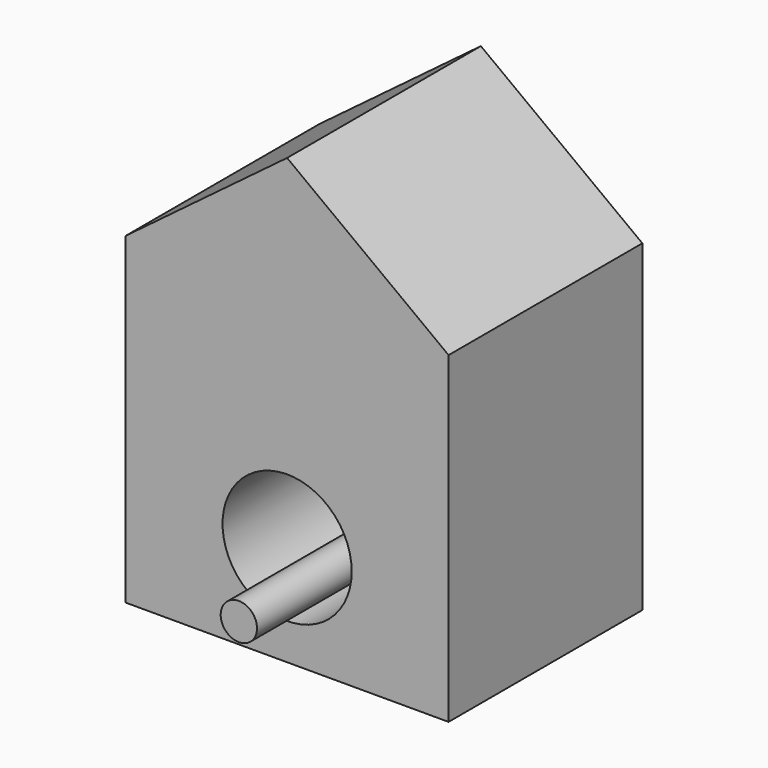
from build123d import *

# Parameters (mm, degrees)
F0_W     = 203.2
F0_H     = 203.2
F0_R     = 40.64
F2_DEPTH = 152.4
F1_R     = 11.43
F3_DEPTH = 190.5


with BuildPart() as f2:
    # F0 (on Front) → F2 (new body)
    with BuildSketch(Plane.XZ):
        Polygon((101.6, 279.4), (0, 203.2), (203.2, 203.2), align=None)
        with Locations((101.6, 101.6)):
            Rectangle(F0_W, F0_H)
        with Locations((101.6, 63.5)):
            Circle(F0_R, mode=Mode.SUBTRACT)
    extrude(amount=F2_DEPTH)


with BuildPart() as f3:
    # F1 (on face) → F3 (new body)
    with BuildSketch(Plane.XZ):
        with Locations((101.706746, 38.100224)):
            Circle(F1_R)
    extrude(amount=F3_DEPTH)


solid = Compound([f2.part, f3.part])
